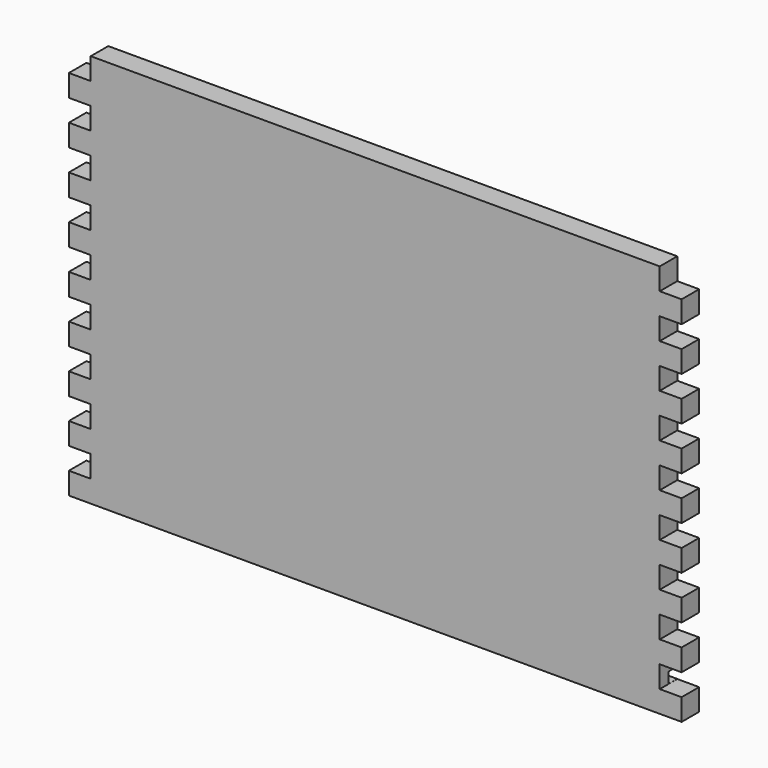
from build123d import *

# Parameters (mm, degrees)
F0_W     = 355.6
F0_H     = 228.6
F1_DEPTH = 12.7
F2_W     = 12.7
F2_H     = 12.7
F3_DEPTH = 25.4
F4_W     = 330.2
F4_H     = 6.35
F5_DEPTH = 6.35


with BuildPart() as f1:
    # F0 (on Front) → F1 (new body)
    with BuildSketch(Plane.XZ):
        with Locations((177.8, 114.3)):
            Rectangle(F0_W, F0_H)
    extrude(amount=F1_DEPTH)

    # F2 (on face) → F3 (cut)
    with BuildSketch(Plane.XZ.offset(12.7)):
        with Locations((6.35, 222.25)):
            Rectangle(F2_W, F2_H)
        with Locations((6.35, 196.85)):
            Rectangle(F2_W, F2_H)
        with Locations((6.35, 171.45)):
            Rectangle(F2_W, F2_H)
        with Locations((6.35, 146.05)):
            Rectangle(F2_W, F2_H)
        with Locations((6.35, 120.65)):
            Rectangle(F2_W, F2_H)
        with Locations((6.35, 95.25)):
            Rectangle(F2_W, F2_H)
        with Locations((6.35, 69.85)):
            Rectangle(F2_W, F2_H)
        with Locations((6.35, 44.45)):
            Rectangle(F2_W, F2_H)
        with Locations((6.35, 19.05)):
            Rectangle(F2_W, F2_H)
        Polygon((346.075, 228.6), (342.9, 228.6), (342.9, 215.9), (346.075, 215.9), (352.425, 215.9), (355.6, 215.9), (355.6, 228.6), (352.425, 228.6), align=None)
        with Locations((349.25, 196.786214)):
            Rectangle(F2_W, F2_H)
        with Locations((349.25, 171.386214)):
            Rectangle(F2_W, F2_H)
        with Locations((349.25, 145.986214)):
            Rectangle(F2_W, F2_H)
        with Locations((349.25, 120.586214)):
            Rectangle(F2_W, F2_H)
        with Locations((349.25, 95.186214)):
            Rectangle(F2_W, F2_H)
        with Locations((349.25, 69.786214)):
            Rectangle(F2_W, F2_H)
        with Locations((349.25, 44.386214)):
            Rectangle(F2_W, F2_H)
        with Locations((349.25, 18.986214)):
            Rectangle(F2_W, F2_H)
    extrude(amount=-F3_DEPTH, mode=Mode.SUBTRACT)

    # F4 (on face) → F5 (cut)
    with BuildSketch(Plane(origin=(0, 0, 0), x_dir=(-1, 0, 0), z_dir=(0, 1, 0))):
        with Locations((-177.8, 15.875)):
            Rectangle(F4_W, F4_H)
    extrude(amount=-F5_DEPTH, mode=Mode.SUBTRACT)


solid = f1.part
